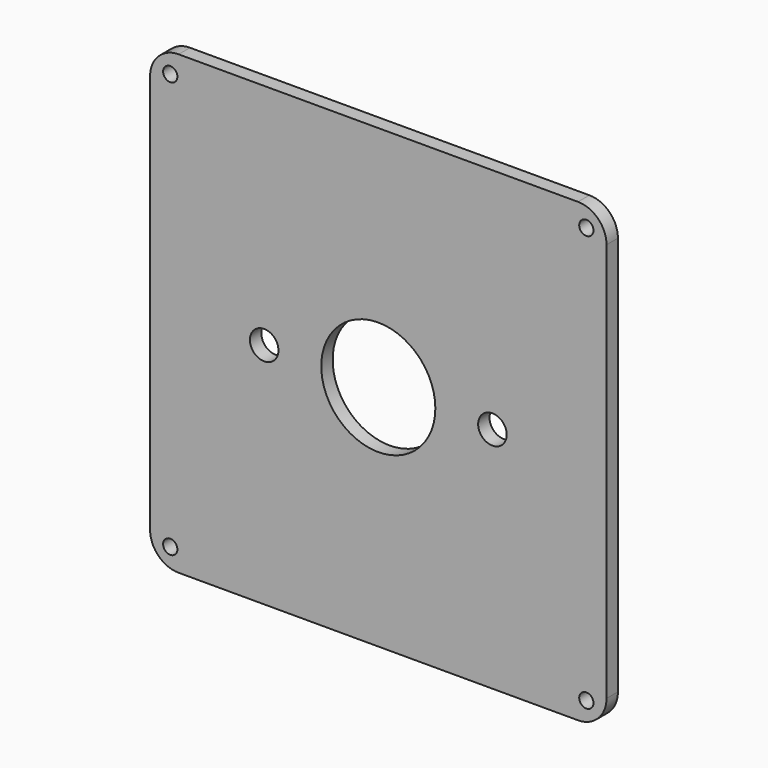
from build123d import *

# Parameters (mm, degrees)
F0_R     = 1.5875
F0_R_2   = 3.175
F0_R_3   = 12.7
F1_DEPTH = 3.175


with BuildPart() as f1:
    # F0 (on Front) → F1 (new body)
    with BuildSketch(Plane.XZ):
        with BuildLine():
            Line((-44.45, -50.8), (44.45, -50.8))
            ThreePointArc((44.45, -50.8), (48.940128, -48.940128), (50.8, -44.45))
            Line((50.8, -44.45), (50.8, 44.45))
            ThreePointArc((50.8, 44.45), (48.940128, 48.940128), (44.45, 50.8))
            Line((44.45, 50.8), (-44.45, 50.8))
            ThreePointArc((-44.45, 50.8), (-48.940128, 48.940128), (-50.8, 44.45))
            Line((-50.8, 44.45), (-50.8, -44.45))
            ThreePointArc((-50.8, -44.45), (-48.940128, -48.940128), (-44.45, -50.8))
        make_face()
        with Locations((-46.309872, -46.309872)):
            Circle(F0_R, mode=Mode.SUBTRACT)
        with Locations((-25.4, 0)):
            Circle(F0_R_2, mode=Mode.SUBTRACT)
        Circle(F0_R_3, mode=Mode.SUBTRACT)
        with Locations((46.309872, -46.309872)):
            Circle(F0_R, mode=Mode.SUBTRACT)
        with Locations((25.4, 0)):
            Circle(F0_R_2, mode=Mode.SUBTRACT)
        with Locations((-46.309872, 46.309872)):
            Circle(F0_R, mode=Mode.SUBTRACT)
        with Locations((46.309872, 46.309872)):
            Circle(F0_R, mode=Mode.SUBTRACT)
    extrude(amount=F1_DEPTH)


solid = f1.part
